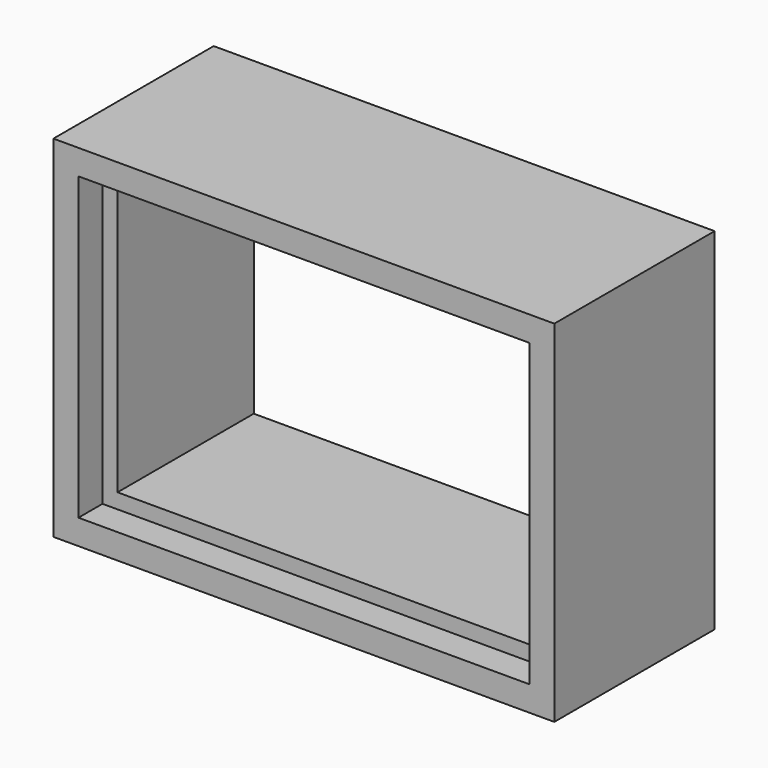
from build123d import *

# Parameters (mm, degrees)
F0_W     = 114.3
F0_H     = 76.2
F0_W_2   = 106.68
F0_H_2   = 68.58
F1_DEPTH = 43.18
F0_W_3   = 127
F0_H_3   = 88.9
F2_DEPTH = 50.8


with BuildPart() as f1:
    # F0 (on Front) → F1 (new body)
    with BuildSketch(Plane.XZ):
        with Locations((-4.400184, -9.486784)):
            Rectangle(F0_W, F0_H)
        with Locations((-4.400184, -9.486784)):
            Rectangle(F0_W_2, F0_H_2, mode=Mode.SUBTRACT)
    extrude(amount=F1_DEPTH)


with BuildPart() as f2:
    # F0 (on Front) → F2 (new body)
    with BuildSketch(Plane.XZ):
        with Locations((-4.400184, -9.486784)):
            Rectangle(F0_W_3, F0_H_3)
        with Locations((-4.400184, -9.486784)):
            Rectangle(F0_W, F0_H, mode=Mode.SUBTRACT)
    extrude(amount=F2_DEPTH)


solid = Compound([f1.part, f2.part])
